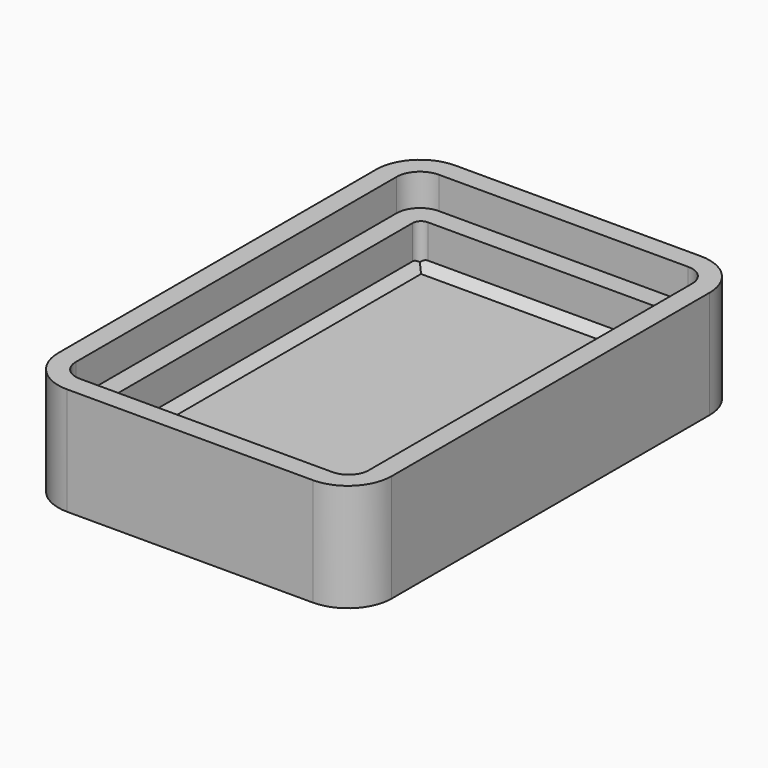
from build123d import *

# Parameters (mm, degrees)
SKETCH_W        = 19.8
SKETCH_H        = 28.8
PAD_DEPTH       = 6.4
SKETCH001_W     = 17.4
SKETCH001_H     = 26.4
POCKET_DEPTH    = 1.9
SKETCH002_W     = 15
SKETCH002_H     = 24
POCKET001_DEPTH = 2.5
SKETCH004_R     = 1
POCKET002_DEPTH = 6.5
CHAMFER_SIZE    = 0.5
CHAMFER001_SIZE = 0.5
CHAMFER002_SIZE = 0.5
CHAMFER003_SIZE = 0.5
FILLET_R        = 1.4
FILLET001_R     = 0.5
FILLET002_R     = 2.6
FILLET003_R     = 0.5
FILLET004_R     = 0.5
FILLET005_R     = 0.5
FILLET006_R     = 1.2
FILLET007_R     = 1.2
FILLET008_R     = 1.2
FILLET009_R     = 2.6
FILLET010_R     = 2.6
FILLET011_R     = 2.6
SKETCH005_R     = 2
POCKET003_DEPTH = 1.5
CHAMFER004_SIZE = 0.8


with BuildPart() as part:
    # Sketch → Pad (new body)
    with BuildSketch(Plane.XY):
        Rectangle(SKETCH_W, SKETCH_H)
    extrude(amount=PAD_DEPTH)

    # Sketch001 (on Face6 of Pad) → Pocket (cut)
    with BuildSketch(Plane.XY.offset(6.4)):
        Rectangle(SKETCH001_W, SKETCH001_H)
    extrude(amount=-POCKET_DEPTH, mode=Mode.SUBTRACT)

    # Sketch002 (on Face11 of Pocket) → Pocket001 (cut)
    with BuildSketch(Plane.XY.offset(4.5)):
        Rectangle(SKETCH002_W, SKETCH002_H)
    extrude(amount=-POCKET001_DEPTH, mode=Mode.SUBTRACT)

    # Sketch004 → Pocket002 (cut)
    with BuildSketch(Plane.XY.offset(6.5)):
        with Locations((4.5, 2.5)):
            Circle(SKETCH004_R)
    extrude(amount=-POCKET002_DEPTH, mode=Mode.SUBTRACT)

    # Chamfer
    chamfer_edges = [part.edges().sort_by_distance(p)[0] for p in [
        (0, 12, 2),
    ]]
    chamfer(chamfer_edges, length=CHAMFER_SIZE)

    # Chamfer001
    chamfer001_edges = [part.edges().sort_by_distance(p)[0] for p in [
        (-7.5, -0.25, 2),
    ]]
    chamfer(chamfer001_edges, length=CHAMFER001_SIZE)

    # Chamfer002
    chamfer002_edges = [part.edges().sort_by_distance(p)[0] for p in [
        (7.5, -0.25, 2),
    ]]
    chamfer(chamfer002_edges, length=CHAMFER002_SIZE)

    # Chamfer003
    chamfer003_edges = [part.edges().sort_by_distance(p)[0] for p in [
        (0, -12, 2),
    ]]
    chamfer(chamfer003_edges, length=CHAMFER003_SIZE)

    # Fillet
    fillet_edges = [part.edges().sort_by_distance(p)[0] for p in [
        (-8.7, 13.2, 5.45),
    ]]
    fillet(fillet_edges, radius=FILLET_R)

    # Fillet001
    fillet001_edges = [part.edges().sort_by_distance(p)[0] for p in [
        (-7.5, 12, 3.5),
    ]]
    fillet(fillet001_edges, radius=FILLET001_R)

    # Fillet002
    fillet002_edges = [part.edges().sort_by_distance(p)[0] for p in [
        (-9.9, 14.4, 3.2),
    ]]
    fillet(fillet002_edges, radius=FILLET002_R)

    # Fillet003
    fillet003_edges = [part.edges().sort_by_distance(p)[0] for p in [
        (7.5, 12, 3.5),
    ]]
    fillet(fillet003_edges, radius=FILLET003_R)

    # Fillet004
    fillet004_edges = [part.edges().sort_by_distance(p)[0] for p in [
        (-7.5, -12, 3.5),
    ]]
    fillet(fillet004_edges, radius=FILLET004_R)

    # Fillet005
    fillet005_edges = [part.edges().sort_by_distance(p)[0] for p in [
        (7.5, -12, 3.5),
    ]]
    fillet(fillet005_edges, radius=FILLET005_R)

    # Fillet006
    fillet006_edges = [part.edges().sort_by_distance(p)[0] for p in [
        (8.7, -13.2, 5.45),
    ]]
    fillet(fillet006_edges, radius=FILLET006_R)

    # Fillet007
    fillet007_edges = [part.edges().sort_by_distance(p)[0] for p in [
        (-8.7, -13.2, 5.45),
    ]]
    fillet(fillet007_edges, radius=FILLET007_R)

    # Fillet008
    fillet008_edges = [part.edges().sort_by_distance(p)[0] for p in [
        (8.7, 13.2, 5.45),
    ]]
    fillet(fillet008_edges, radius=FILLET008_R)

    # Fillet009
    fillet009_edges = [part.edges().sort_by_distance(p)[0] for p in [
        (9.9, 14.4, 3.2),
    ]]
    fillet(fillet009_edges, radius=FILLET009_R)

    # Fillet010
    fillet010_edges = [part.edges().sort_by_distance(p)[0] for p in [
        (9.9, -14.4, 3.2),
    ]]
    fillet(fillet010_edges, radius=FILLET010_R)

    # Fillet011
    fillet011_edges = [part.edges().sort_by_distance(p)[0] for p in [
        (-9.9, -14.4, 3.2),
    ]]
    fillet(fillet011_edges, radius=FILLET011_R)

    # Sketch005 (on Face18 of Fillet011) → Pocket003 (cut)
    with BuildSketch(Plane(origin=(0, 0, 0), x_dir=(1, 0, 0), z_dir=(0, 0, -1))):
        with Locations((4.5, -2.5)):
            Circle(SKETCH005_R)
    extrude(amount=-POCKET003_DEPTH, mode=Mode.SUBTRACT)

    # Chamfer004
    chamfer004_edges = [part.edges().sort_by_distance(p)[0] for p in [
        (2.5, 2.5, 1.5),
    ]]
    chamfer(chamfer004_edges, length=CHAMFER004_SIZE)


solid = part.part
